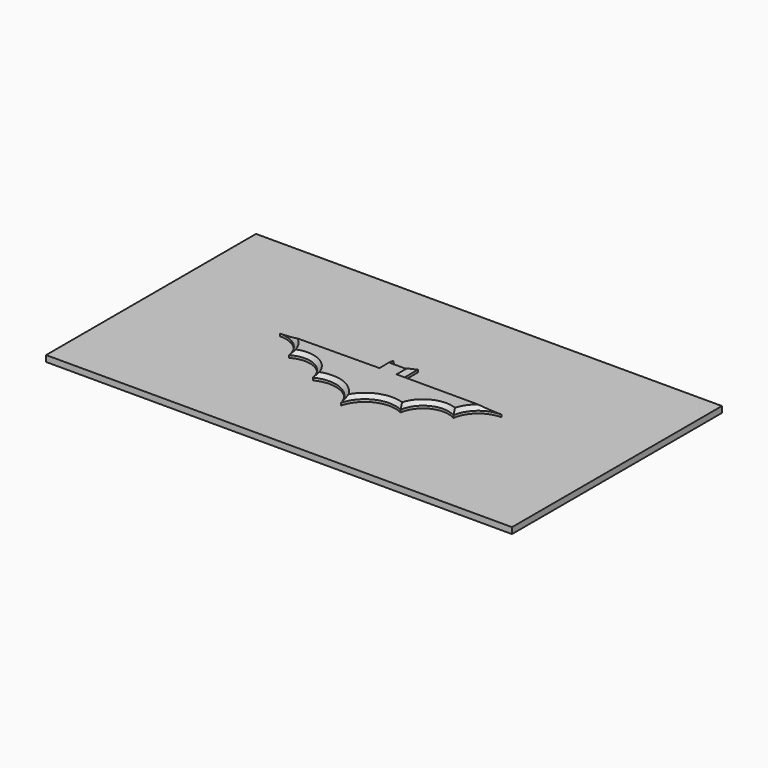
from build123d import *

# Parameters (mm, degrees)
F1_DEPTH = 6.35
F3_SIZE  = 3.81
F5_W     = 482.6
F5_H     = 271.78
F6_DEPTH = 6.35


with BuildPart() as f1:
    # F0 (on Top) → F1 (new body)
    with BuildSketch(Plane.XY):
        with BuildLine():
            Line((5.972245817, 21.453949254), (-0.377754183, 21.453949254))
            Line((-0.377754183, 21.453949254), (0, -55.885091424))
            ThreePointArc((0, -55.885091424), (17.6988021237, -34.8224985897), (45.2049598098, -35.3625938296))
            ThreePointArc((45.2049598098, -35.3625938296), (59.8006112137, -15.3096178799), (84.5859646797, -16.2267535925))
            ThreePointArc((84.5859646797, -16.2267535925), (94.5533505133, 1.8734329543), (113.922245817, 9.071448521))
            Line((113.922245817, 9.071448521), (12.322245817, 9.071448521))
            Line((12.322245817, 9.071448521), (12.322245817, 28.121448521))
            Line((12.322245817, 28.121448521), (5.972245817, 21.453949254))
        make_face()
    extrude(amount=F1_DEPTH)

    # F2: F1 across face


with BuildPart() as f1_1:
    add(f1.part)
    add(f1.part.mirror(Plane(origin=(-0.1888770915, -17.215571085, 3.175), x_dir=(0.0048843336, -0.9999880716, 0), z_dir=(-0.9999880716, -0.0048843336, 0))))

    # F3
    f3_edges = [f1_1.edges().sort_by_distance(p)[0] for p in [
        (12.322246, 18.596449, 6.35),
        (9.147246, 24.787699, 6.35),
        (2.797246, 21.453949, 6.35),
        (-3.552603, 21.422934, 6.35),
        (-9.934866, 24.694494, 6.35),
        (-13.049235, 18.472524, 6.35),
        (-63.753765, 8.451736, 6.35),
        (-95.113056, 0.947028, 6.35),
        (-60.194121, -15.895719, 6.35),
        (-17.903709, -34.996395, 6.35),
        (17.698802, -34.822499, 6.35),
        (59.800611, -15.309618, 6.35),
        (94.553351, 1.873433, 6.35),
        (63.122246, 9.071449, 6.35),
    ]]
    chamfer(f3_edges, length=F3_SIZE)


with BuildPart() as f6:
    # F5 (on offset) → F6 (new body)
    with BuildSketch(Plane.XY.offset(-6.35)):
        with Locations((-0.2867917727, -0.003516674)):
            Rectangle(F5_W, F5_H)
    extrude(amount=F6_DEPTH)


solid = Compound([f1_1.part, f6.part])
